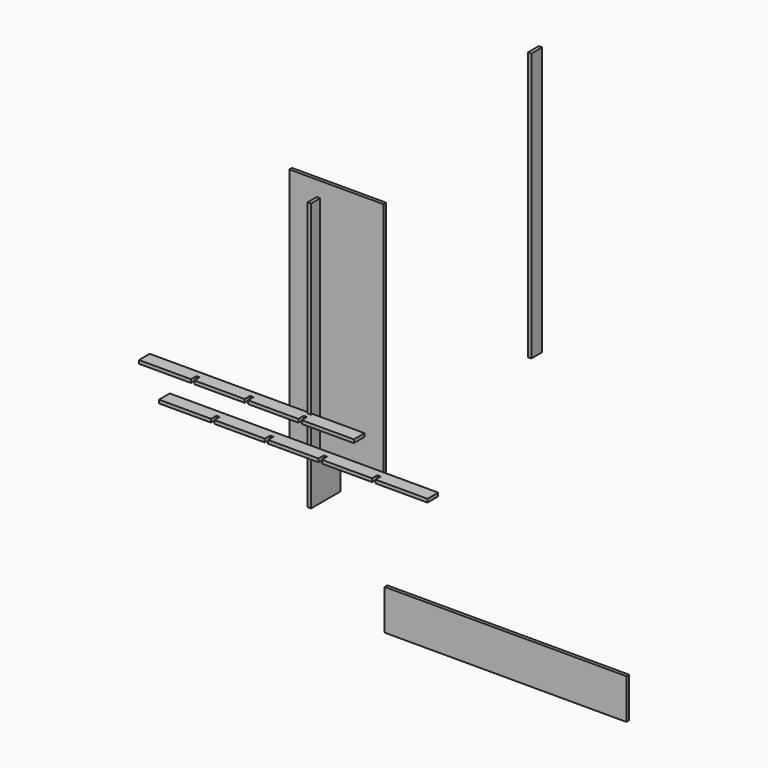
from build123d import *

# Parameters (mm, degrees)
F0_W      = 100
F0_H      = 100
F1_DEPTH  = 300
F2_W      = 75
F2_H      = 75
F3_DEPTH  = 275
F4_W      = 700
F4_H      = 1800
F5_DEPTH  = 25
F6_W      = 275
F6_H      = 2000
F7_DEPTH  = 25
F8_W      = 1800
F8_H      = 300
F9_DEPTH  = 25
F10_W     = 100
F10_H     = 2000
F11_DEPTH = 25
F13_DEPTH = 25
F15_DEPTH = 25


with BuildPart() as f1:
    # F0 (on Top) → F1 (new body)
    with BuildSketch(Plane.XY):
        with Locations((-77.045622, 46.602286)):
            Rectangle(F0_W, F0_H)
    extrude(amount=F1_DEPTH)

    # F2 (on face) → F3 (join)
    with BuildSketch(Plane.XY.offset(300)):
        with Locations((-89.545622, 34.102286)):
            Rectangle(F2_W, F2_H)
    extrude(amount=F3_DEPTH)


with BuildPart() as f5:
    # F4 (on Front) → F5 (new body)
    with BuildSketch(Plane.XZ):
        with Locations((145.048743, 624.656105)):
            Rectangle(F4_W, F4_H)
    extrude(amount=F5_DEPTH)


with BuildPart() as f7:
    # F6 (on Right) → F7 (new body)
    with BuildSketch(Plane.YZ):
        with Locations((27.847838, 410.509288)):
            Rectangle(F6_W, F6_H)
    extrude(amount=F7_DEPTH)


with BuildPart() as f9:
    # F8 (on Front) → F9 (new body)
    with BuildSketch(Plane.XZ):
        with Locations((1405.699396, -1132.243133)):
            Rectangle(F8_W, F8_H)
    extrude(amount=F9_DEPTH)


with BuildPart() as f11:
    # F10 (on Right) → F11 (new body)
    with BuildSketch(Plane.YZ):
        with Locations((1991.363335, 560.219765)):
            Rectangle(F10_W, F10_H)
    extrude(amount=F11_DEPTH)


with BuildPart() as f13:
    # F12 (on Top) → F13 (new body)
    with BuildSketch(Plane.XY):
        Polygon((25, -196.505308), (412.5, -196.505308), (412.5, -96.505308), (-1187.5, -96.505308), (-1187.5, -196.505308), (-800, -196.505308), (-800, -146.505308), (-775, -146.505308), (-775, -196.505308), (-400, -196.505308), (-400, -146.505308), (-375, -146.505308), (-375, -196.505308), (0, -196.505308), (0, -146.505308), (25, -146.505308), align=None)
    extrude(amount=F13_DEPTH)


with BuildPart() as f15:
    # F14 (on Top) → F15 (new body)
    with BuildSketch(Plane.XY):
        Polygon((827.735174, -513.403773), (1215.235174, -513.403773), (1215.235174, -413.403773), (-784.764826, -413.403773), (-784.764826, -513.403773), (-397.264826, -513.403773), (-397.264826, -463.403773), (-372.264826, -463.403773), (-372.264826, -513.403773), (2.735174, -513.403773), (2.735174, -463.403773), (27.735174, -463.403773), (27.735174, -513.403773), (402.735174, -513.403773), (402.735174, -463.403773), (427.735174, -463.403773), (427.735174, -513.403773), (802.735174, -513.403773), (802.735174, -463.403773), (827.735174, -463.403773), align=None)
    extrude(amount=F15_DEPTH)


solid = Compound([f1.part, f5.part, f7.part, f9.part, f11.part, f13.part, f15.part])
